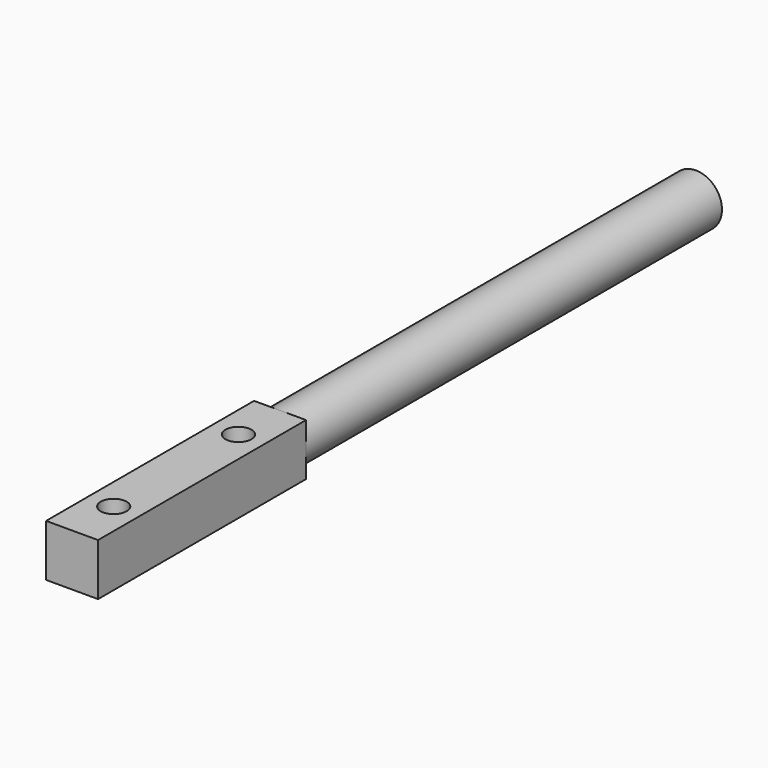
from build123d import *

# Parameters (mm, degrees)
F0_W     = 12.7
F0_H     = 12.7
F1_DEPTH = 63.5
F2_R     = 3.175
F3_DEPTH = 25.4
F4_R     = 6.35
F5_DEPTH = 127


with BuildPart() as f1:
    # F0 (on Front) → F1 (new body)
    with BuildSketch(Plane.XZ):
        Rectangle(F0_W, F0_H)
    extrude(amount=F1_DEPTH)

    # F2 (on face) → F3 (cut)
    with BuildSketch(Plane.XY.offset(6.35)):
        with Locations((0, -12.7)):
            Circle(F2_R)
        with Locations((0, -50.8)):
            Circle(F2_R)
    extrude(amount=-F3_DEPTH, mode=Mode.SUBTRACT)

    # F4 (on face) → F5 (join)
    with BuildSketch(Plane(origin=(0, 0, 0), x_dir=(-1, 0, 0), z_dir=(0, 1, 0))):
        Circle(F4_R)
    extrude(amount=F5_DEPTH)


solid = f1.part
